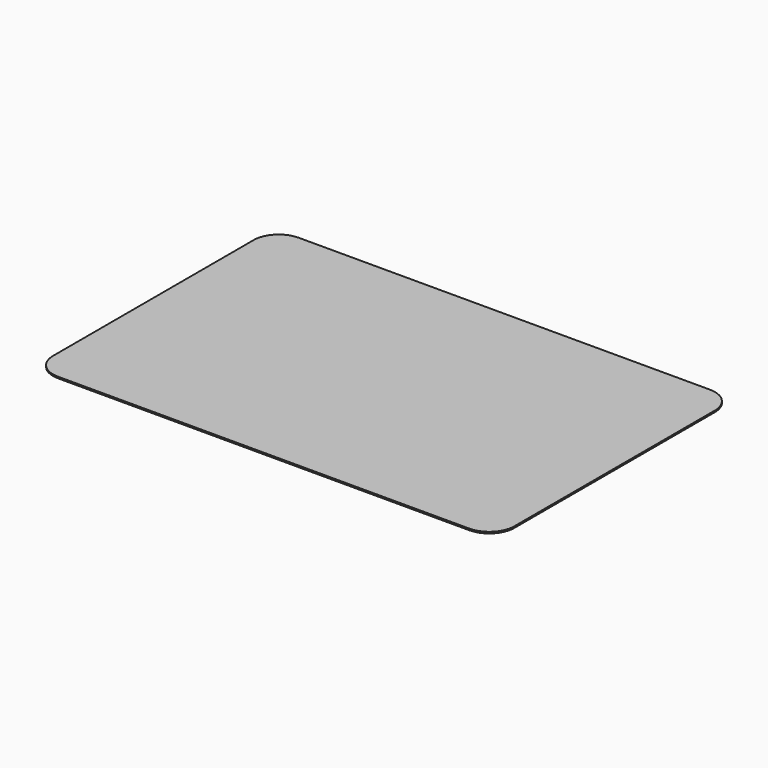
from build123d import *

# Parameters (mm, degrees)
F0_W     = 92
F0_H     = 60
F1_DEPTH = 0.3
F2_R     = 5
F3_R     = 1
F4_DEPTH = 0.7


with BuildPart() as f1:
    # F0 (on Top) → F1 (new body)
    with BuildSketch(Plane.XY):
        Rectangle(F0_W, F0_H)
    extrude(amount=F1_DEPTH)

    # F2
    f2_edges = [f1.edges().sort_by_distance(p)[0] for p in [
        (-46, 30, 0.15),
        (-46, -30, 0.15),
        (46, 30, 0.15),
        (46, -30, 0.15),
    ]]
    fillet(f2_edges, radius=F2_R)

    # F3 (on face) → F4 (join)
    with BuildSketch(Plane(origin=(0, 0, 0), x_dir=(1, 0, 0), z_dir=(0, 0, -1))):
        Circle(F3_R)
    extrude(amount=F4_DEPTH)


solid = f1.part
